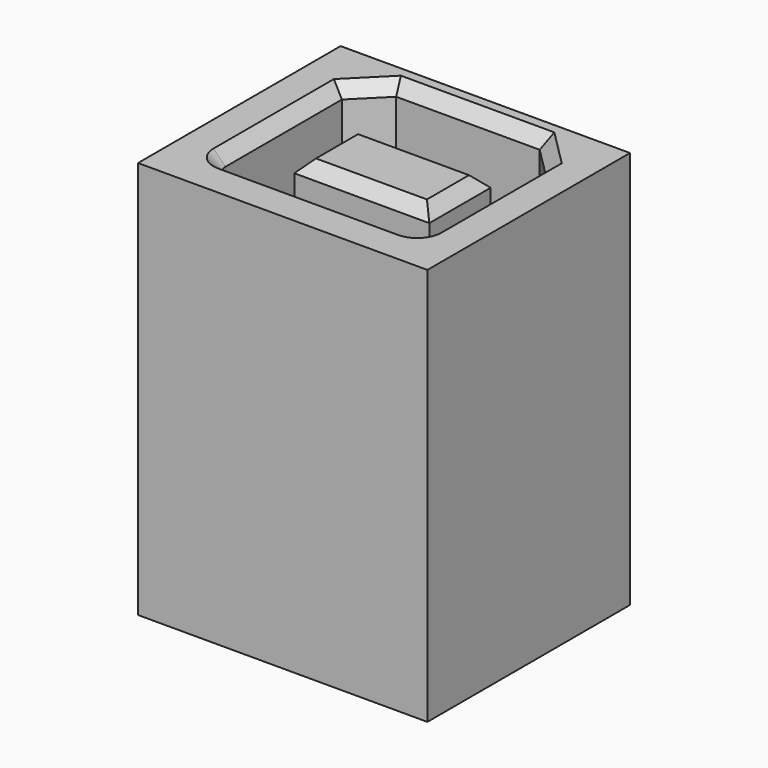
from build123d import *

# Parameters (mm, degrees)
SKETCH_W        = 12
SKETCH_H        = 10.5
PAD_DEPTH       = 8.25
POCKET_DEPTH    = 9
SKETCH002_W     = 5.6
SKETCH002_H     = 3.18
PAD001_DEPTH    = 8.5
CHAMFER_SIZE    = 0.5
CHAMFER001_SIZE = 0.5


with BuildPart() as part:
    # Sketch → Pad (new body, symmetric)
    with BuildSketch(Plane.XY):
        Rectangle(SKETCH_W, SKETCH_H)
    extrude(amount=PAD_DEPTH, both=True)

    # Sketch001 → Pocket (cut)
    with BuildSketch(Plane.XY.offset(8.25)):
        with BuildLine():
            Line((-4.225, -2.93), (-4.225, 3.1))
            Line((-4.225, 3.1), (-2.975, 4.35))
            Line((-2.975, 4.35), (2.975, 4.35))
            Line((2.975, 4.35), (4.225, 3.1))
            Line((4.225, 3.1), (4.225, -2.93))
            ThreePointArc((3.725, -3.43), (4.078553, -3.283553), (4.225, -2.93))
            Line((3.725, -3.43), (-3.725, -3.43))
            ThreePointArc((-4.225, -2.93), (-4.078553, -3.283553), (-3.725, -3.43))
        make_face()
    extrude(amount=-POCKET_DEPTH, mode=Mode.SUBTRACT)

    # Sketch002 → Pad001 (new body)
    with BuildSketch(Plane.XY.offset(-0.75)):
        with Locations((0, 0.44)):
            Rectangle(SKETCH002_W, SKETCH002_H)
    extrude(amount=PAD001_DEPTH)

    # Chamfer
    chamfer_edges = [part.edges().sort_by_distance(p)[0] for p in [
        (2.8, 0.44, 7.75),
        (0, 2.03, 7.75),
        (-2.8, 0.44, 7.75),
        (0, -1.15, 7.75),
    ]]
    chamfer(chamfer_edges, length=CHAMFER_SIZE)

    # Chamfer001
    chamfer001_edges = [part.edges().sort_by_distance(p)[0] for p in [
        (0, -3.43, 8.25),
        (4.078553, -3.283553, 8.25),
        (-4.078553, -3.283553, 8.25),
        (4.225, 0.085, 8.25),
        (-4.225, 0.085, 8.25),
        (3.6, 3.725, 8.25),
        (-3.6, 3.725, 8.25),
        (0, 4.35, 8.25),
    ]]
    chamfer(chamfer001_edges, length=CHAMFER001_SIZE)


solid = part.part
